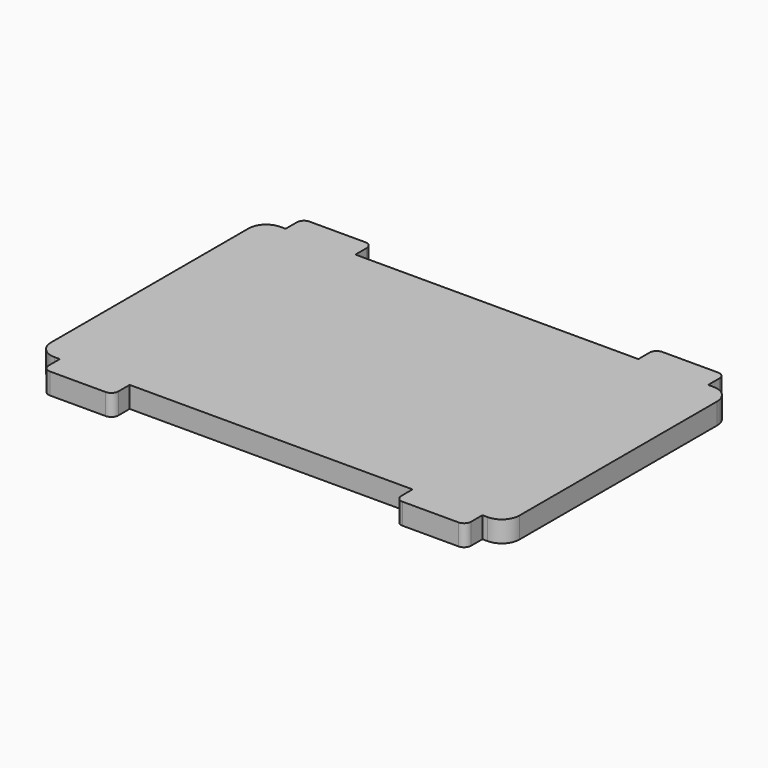
from build123d import *

# Parameters (mm, degrees)
PAD_DEPTH   = 3
FILLET_R    = 1
FILLET001_R = 2.5


with BuildPart() as part:
    # Sketch → Pad (new body)
    with BuildSketch(Plane.XY):
        Polygon((13.058418, 32.987703), (13.058418, -7.012297), (9.808418, -7.012297), (9.808418, -10.012297), (-0.091582, -10.012297), (-0.091582, -7.012297), (-40.191582, -7.012297), (-40.191582, -10.012297), (-50.091582, -10.012297), (-50.091582, -7.012297), (-53.341582, -7.012297), (-53.341582, 32.987703), (-50.091582, 32.987703), (-50.091582, 35.987703), (-40.191582, 35.987703), (-40.191582, 32.987703), (-0.091582, 32.987703), (-0.091582, 35.987703), (9.808418, 35.987703), (9.808418, 32.987703), align=None)
    extrude(amount=PAD_DEPTH)

    # Fillet
    fillet_edges = [part.edges().sort_by_distance(p)[0] for p in [
        (-50.091582, 35.987703, 1.5),
        (-40.191582, 35.987703, 1.5),
        (-0.091582, 35.987703, 1.5),
        (9.808418, 35.987703, 1.5),
        (9.808418, -10.012297, 1.5),
        (-0.091582, -10.012297, 1.5),
        (-40.191582, -10.012297, 1.5),
        (-50.091582, -10.012297, 1.5),
    ]]
    fillet(fillet_edges, radius=FILLET_R)

    # Fillet001
    fillet001_edges = [part.edges().sort_by_distance(p)[0] for p in [
        (-53.341582, 32.987703, 1.5),
        (-53.341582, -7.012297, 1.5),
        (13.058418, 32.987703, 1.5),
        (13.058418, -7.012297, 1.5),
    ]]
    fillet(fillet001_edges, radius=FILLET001_R)


with BuildPart() as part_1:
    # Fillet001 placement: moved
    add(part.part.moved(Location((200, 100, 0))))


solid = part_1.part
